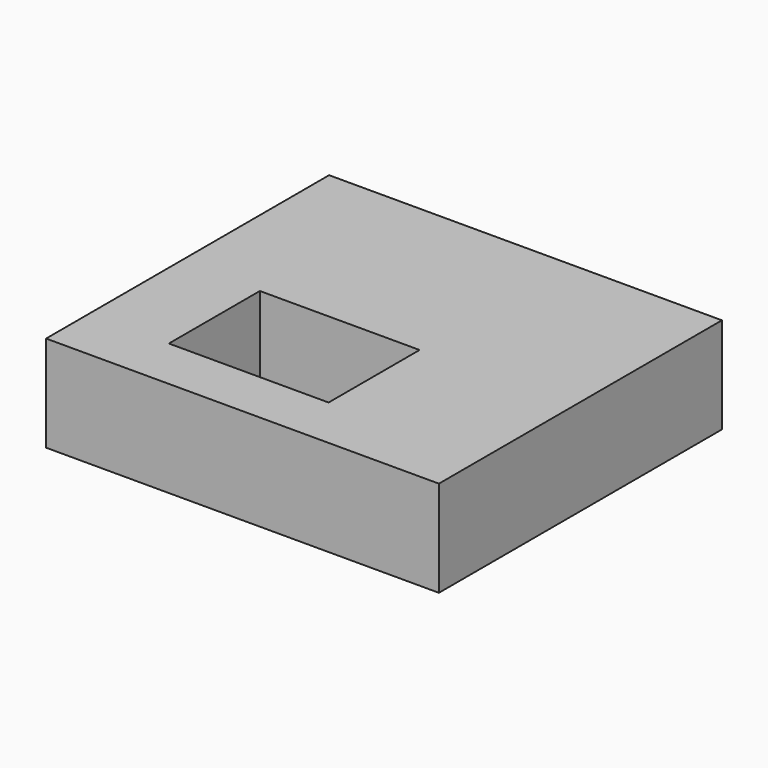
from build123d import *

# Parameters (mm, degrees)
F0_W     = 78.413494
F0_H     = 93.491562
F0_W_2   = 42.211123
F0_H_2   = 30.062646
F1_DEPTH = 25.4
F3_DEPTH = 25.4


with BuildPart() as f1:
    # F0 (on Top) → F1 (new body)
    with BuildSketch(Plane.XY):
        with Locations((-4.330378, 2.591286)):
            Rectangle(F0_W, F0_H)
        with Locations((-1.256664, -15.031323)):
            Rectangle(F0_W_2, F0_H_2, mode=Mode.SUBTRACT)
    extrude(amount=F1_DEPTH)

    # F2 (on face) → F3 (join)
    with BuildSketch(Plane.YZ.offset(34.876369)):
        Polygon((49.337067, 0), (49.337067, 12.7), (-44.154495, 25.4), (-44.154495, 0), align=None)
        Polygon((-44.154495, 25.4), (49.337067, 12.7), (49.337067, 25.4), align=None)
    extrude(amount=F3_DEPTH)


solid = f1.part
